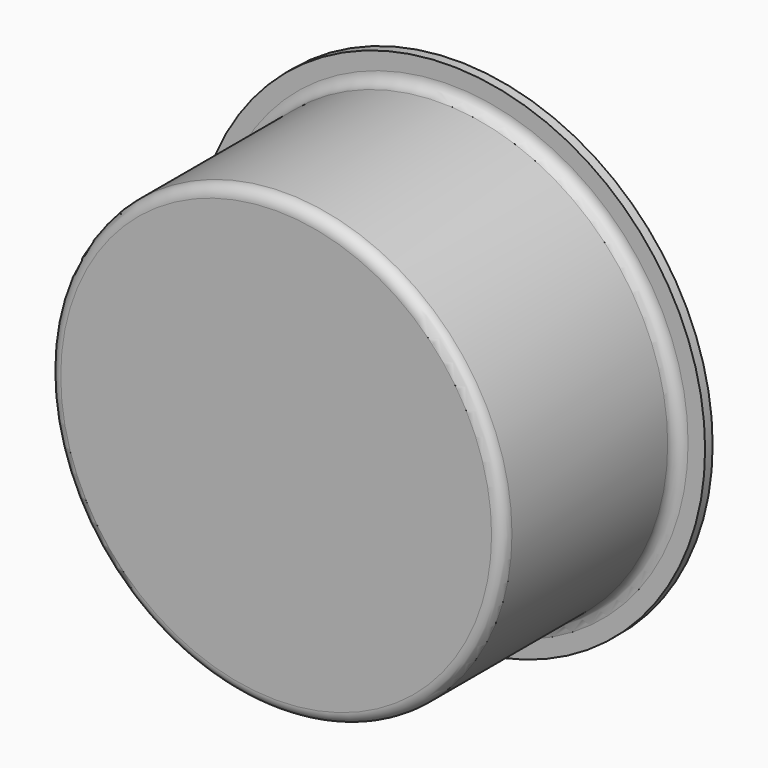
from build123d import *

# Parameters (mm, degrees)
F0_R     = 152.4
F1_DEPTH = 152.4
F0_R_2   = 171.45
F2_DEPTH = 6.35
F3_T     = -2.54
F4_R     = 7.62


with BuildPart() as f1:
    # F0 (on Front) → F1 (new body)
    with BuildSketch(Plane.XZ):
        Circle(F0_R)
    extrude(amount=F1_DEPTH)

    # F0 (on Front) → F2 (join)
    with BuildSketch(Plane.XZ):
        Circle(F0_R_2)
        Circle(F0_R, mode=Mode.SUBTRACT)
    extrude(amount=F2_DEPTH)

    # F3
    f3_openings = [f1.faces().sort_by_distance(p)[0] for p in [
        (0, 0, 0),
    ]]
    offset(amount=F3_T, openings=f3_openings, kind=Kind.INTERSECTION)

    # F4
    f4_edges = [f1.edges().sort_by_distance(p)[0] for p in [
        (-152.4, -152.4, 0),
        (-152.4, -6.35, 0),
        (-149.86, -149.86, 0),
    ]]
    fillet(f4_edges, radius=F4_R)


solid = f1.part
